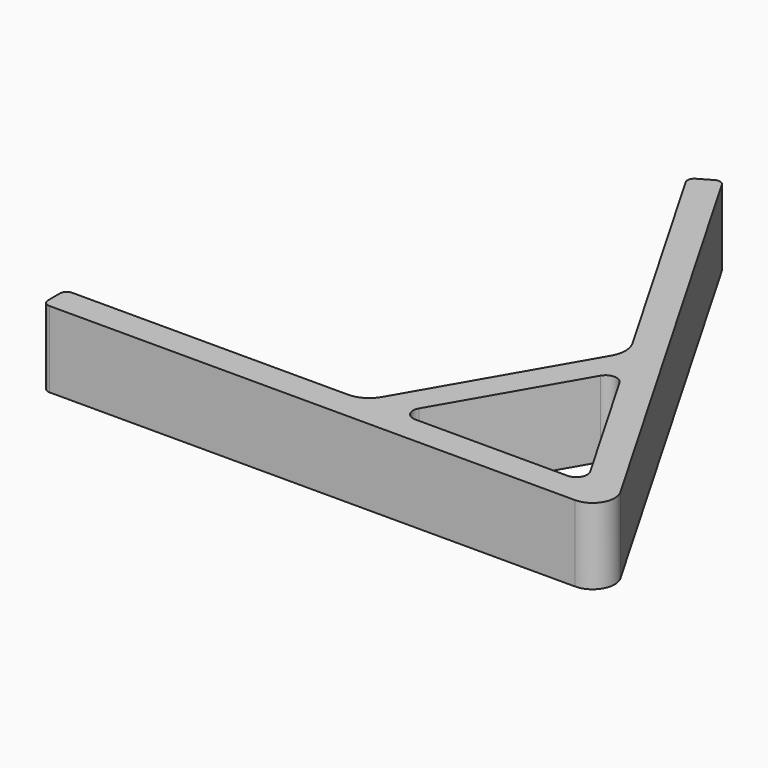
from build123d import *

# Parameters (mm, degrees)
PAD_DEPTH = 4


with BuildPart() as part:
    # Sketch → Pad (new body)
    with BuildSketch(Plane.XY):
        with BuildLine():
            Line((0.353553, 0), (28, 0))
            ThreePointArc((28, 0), (29, 0.57735), (29, 1.732051))
            Line((29, 1.732051), (15.176777, 25.674576))
            ThreePointArc((15.176777, 25.674576), (14.962097, 25.839306), (14.693814, 25.803985))
            Line((14.693814, 25.803985), (14.007148, 25.407539))
            ThreePointArc((14.007148, 25.407539), (13.842418, 25.192859), (13.877739, 24.924576))
            Line((21.131753, 12.360254), (13.877739, 24.924576))
            ThreePointArc((21.131753, 10.960254), (21.319318, 11.660254), (21.131753, 12.360254))
            Line((21.131753, 10.960254), (16.074018, 2.2))
            ThreePointArc((14.861583, 1.5), (15.561583, 1.687564), (16.074018, 2.2))
            Line((0.353553, 1.5), (14.861583, 1.5))
            ThreePointArc((0.353553, 1.5), (0.103553, 1.396447), (0, 1.146447))
            Line((0, 1.146447), (0, 0.353553))
            ThreePointArc((0, 0.353553), (0.103553, 0.103553), (0.353553, 0))
        make_face()
        with BuildLine():
            Line((21.901924, 9.294229), (17.901924, 2.366025))
            ThreePointArc((17.901924, 2.366025), (17.901924, 1.788675), (18.401924, 1.5))
            Line((26.401924, 1.5), (18.401924, 1.5))
            ThreePointArc((26.401924, 1.5), (26.901924, 1.788675), (26.901924, 2.366025))
            Line((22.901924, 9.294229), (26.901924, 2.366025))
            ThreePointArc((22.901924, 9.294229), (22.401924, 9.582904), (21.901924, 9.294229))
        make_face(mode=Mode.SUBTRACT)
    extrude(amount=PAD_DEPTH)


solid = part.part
